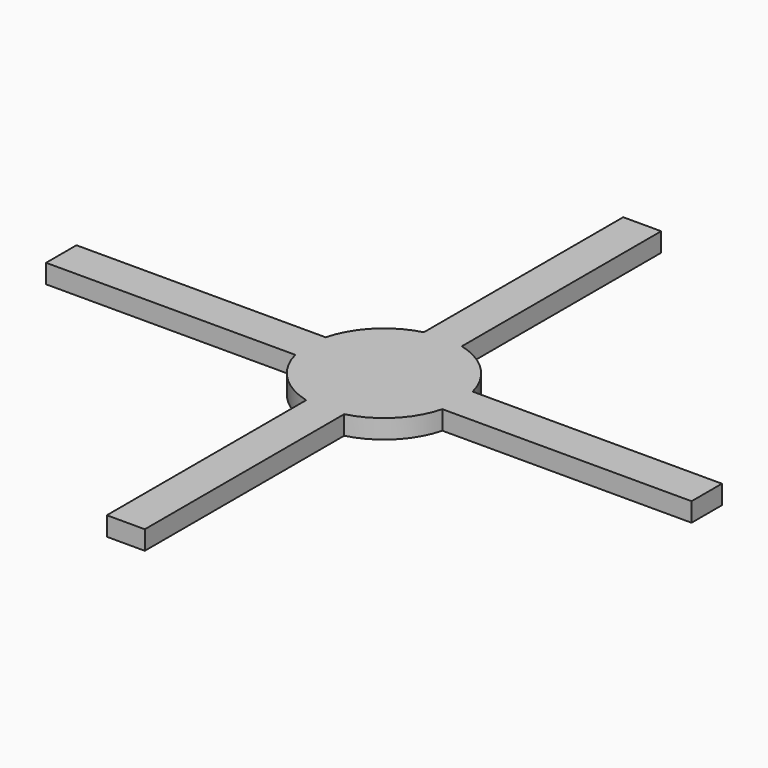
from build123d import *

# Parameters (mm, degrees)
F0_W     = 6.35
F0_H     = 6.35
F1_DEPTH = 3.175


with BuildPart() as f1:
    # F0 (on Top) → F1 (new body)
    with BuildSketch(Plane.XY):
        with BuildLine():
            Line((-12.2967221242, 3.175), (-53.975, 3.175))
            Line((-53.975, 3.175), (-53.975, -3.175))
            Line((-53.975, -3.175), (-12.2967221242, -3.175))
            ThreePointArc((-12.2967221242, -3.175), (-12.7, 0), (-12.2967221242, 3.175))
        make_face()
        with BuildLine():
            Line((53.975, 3.175), (12.2967221242, 3.175))
            ThreePointArc((12.2967221242, 3.175), (12.5987771426, 1.6002545145), (12.7, 0))
            ThreePointArc((12.7, 0), (12.5987771426, -1.6002545145), (12.2967221242, -3.175))
            Line((12.2967221242, -3.175), (53.975, -3.175))
            Line((53.975, -3.175), (53.975, 3.175))
        make_face()
        with BuildLine():
            ThreePointArc((3.175, -12.2967221242), (0, -12.7), (-3.175, -12.2967221242))
            Line((-3.175, -12.2967221242), (-3.175, -53.975))
            Line((-3.175, -53.975), (3.175, -53.975))
            Line((3.175, -53.975), (3.175, -12.2967221242))
        make_face()
        with BuildLine():
            Line((-3.175, 53.975), (-3.175, 12.2967221242))
            ThreePointArc((-3.175, 12.2967221242), (0, 12.7), (3.175, 12.2967221242))
            Line((3.175, 12.2967221242), (3.175, 53.975))
            Line((3.175, 53.975), (-3.175, 53.975))
        make_face()
        with BuildLine():
            ThreePointArc((-3.175, 12.2967221242), (-8.9802561211, 8.9802561211), (-12.2967221242, 3.175))
            Line((-12.2967221242, 3.175), (-3.175, 3.175))
            Line((-3.175, 3.175), (-3.175, 12.2967221242))
        make_face()
        with BuildLine():
            Line((3.175, 12.2967221242), (3.175, 3.175))
            Line((3.175, 3.175), (12.2967221242, 3.175))
            ThreePointArc((12.2967221242, 3.175), (8.9802561211, 8.9802561211), (3.175, 12.2967221242))
        make_face()
        with BuildLine():
            Line((-3.175, -3.175), (-12.2967221242, -3.175))
            ThreePointArc((-12.2967221242, -3.175), (-8.9802561211, -8.9802561211), (-3.175, -12.2967221242))
            Line((-3.175, -12.2967221242), (-3.175, -3.175))
        make_face()
        with BuildLine():
            Line((12.2967221242, -3.175), (3.175, -3.175))
            Line((3.175, -3.175), (3.175, -12.2967221242))
            ThreePointArc((3.175, -12.2967221242), (8.9802561211, -8.9802561211), (12.2967221242, -3.175))
        make_face()
        with BuildLine():
            Line((-3.175, 3.175), (-12.2967221242, 3.175))
            ThreePointArc((-12.2967221242, 3.175), (-12.7, 0), (-12.2967221242, -3.175))
            Line((-12.2967221242, -3.175), (-3.175, -3.175))
            Line((-3.175, -3.175), (-3.175, 3.175))
        make_face()
        with BuildLine():
            Line((-3.175, 12.2967221242), (-3.175, 3.175))
            Line((-3.175, 3.175), (3.175, 3.175))
            Line((3.175, 3.175), (3.175, 12.2967221242))
            ThreePointArc((3.175, 12.2967221242), (0, 12.7), (-3.175, 12.2967221242))
        make_face()
        with BuildLine():
            Line((12.2967221242, 3.175), (3.175, 3.175))
            Line((3.175, 3.175), (3.175, -3.175))
            Line((3.175, -3.175), (12.2967221242, -3.175))
            ThreePointArc((12.2967221242, -3.175), (12.5987771426, -1.6002545145), (12.7, 0))
            ThreePointArc((12.7, 0), (12.5987771426, 1.6002545145), (12.2967221242, 3.175))
        make_face()
        with BuildLine():
            Line((3.175, -3.175), (-3.175, -3.175))
            Line((-3.175, -3.175), (-3.175, -12.2967221242))
            ThreePointArc((-3.175, -12.2967221242), (0, -12.7), (3.175, -12.2967221242))
            Line((3.175, -12.2967221242), (3.175, -3.175))
        make_face()
        Rectangle(F0_W, F0_H)
    extrude(amount=F1_DEPTH)


solid = f1.part
